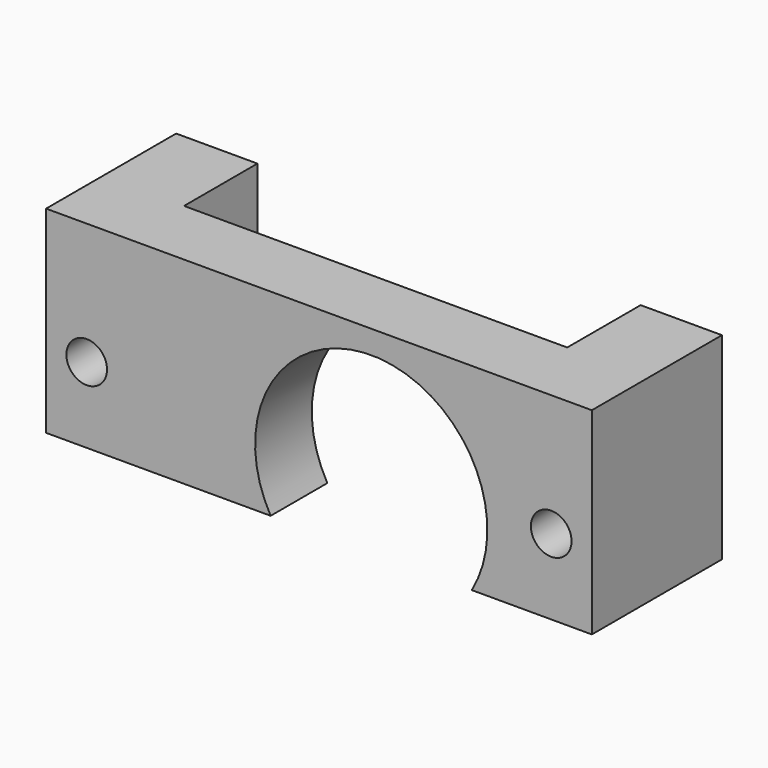
from build123d import *

# Parameters (mm, degrees)
CYLINDER025_R          = 1.75
CYLINDER025_DEPTH      = 44
CYLINDER025_ROLL_ANGLE = 90
CYLINDER034_R          = 1.75
CYLINDER034_DEPTH      = 44
CYLINDER034_ROLL_ANGLE = 90
CYLINDER035_R          = 1.75
CYLINDER035_DEPTH      = 44
CYLINDER035_ROLL_ANGLE = 90
CYLINDER036_R          = 10
CYLINDER036_DEPTH      = 34
CYLINDER036_ROLL_ANGLE = 90
CYLINDER024_R          = 1.75
CYLINDER024_DEPTH      = 44
CYLINDER024_ROLL_ANGLE = 90
BOX052_W               = 7
BOX052_H               = 7.9
BOX052_DEPTH           = 17
BOX050_W               = 47
BOX050_H               = 6.1
BOX050_DEPTH           = 17
BOX051_W               = 7
BOX051_H               = 7.9
BOX051_DEPTH           = 17


with BuildPart() as cylinder_for_hole_10_groovemount_r001:
    # Cylinder025 → Cylinder025 (new body)
    with BuildSketch(Plane.XY):
        Circle(CYLINDER025_R)
    extrude(amount=CYLINDER025_DEPTH)


with BuildPart() as cylinder_for_hole_10_groovemount_r001_1:
    # Cylinder025 roll: moved
    add(cylinder_for_hole_10_groovemount_r001.part.rotate(Axis((0, 0, 0), (1, 0, 0)), CYLINDER025_ROLL_ANGLE))


with BuildPart() as cylinder_for_hole_10_groovemount_r001_2:
    # Cylinder025 placement: moved
    add(cylinder_for_hole_10_groovemount_r001_1.part.moved(Location((20, 6, -2.5))))


with BuildPart() as cylinder_for_hole_3_motherboard002:
    # Cylinder034 → Cylinder034 (new body)
    with BuildSketch(Plane.XY):
        Circle(CYLINDER034_R)
    extrude(amount=CYLINDER034_DEPTH)


with BuildPart() as cylinder_for_hole_3_motherboard002_1:
    # Cylinder034 roll: moved
    add(cylinder_for_hole_3_motherboard002.part.rotate(Axis((0, 0, 0), (1, 0, 0)), CYLINDER034_ROLL_ANGLE))


with BuildPart() as cylinder_for_hole_3_motherboard002_2:
    # Cylinder034 placement: moved
    add(cylinder_for_hole_3_motherboard002_1.part.moved(Location((-20, 6, -13.5))))


with BuildPart() as cylinder_for_hole_4_motherboard002:
    # Cylinder035 → Cylinder035 (new body)
    with BuildSketch(Plane.XY):
        Circle(CYLINDER035_R)
    extrude(amount=CYLINDER035_DEPTH)


with BuildPart() as cylinder_for_hole_4_motherboard002_1:
    # Cylinder035 roll: moved
    add(cylinder_for_hole_4_motherboard002.part.rotate(Axis((0, 0, 0), (1, 0, 0)), CYLINDER035_ROLL_ANGLE))


with BuildPart() as cylinder_for_hole_4_motherboard002_2:
    # Cylinder035 placement: moved
    add(cylinder_for_hole_4_motherboard002_1.part.moved(Location((20, 6, -13.5))))


with BuildPart() as obj1_hole:
    # Cylinder036 → Cylinder036 (new body)
    with BuildSketch(Plane.XY):
        Circle(CYLINDER036_R)
    extrude(amount=CYLINDER036_DEPTH)


with BuildPart() as obj1_hole_1:
    # Cylinder036 roll: moved
    add(obj1_hole.part.rotate(Axis((0, 0, 0), (1, 0, 0)), CYLINDER036_ROLL_ANGLE))


with BuildPart() as obj1_hole_2:
    # Cylinder036 placement: moved
    add(obj1_hole_1.part.moved(Location((4.5, 0, -4))))


with BuildPart() as obj2:
    # Cylinder024 → Cylinder024 (new body)
    with BuildSketch(Plane.XY):
        Circle(CYLINDER024_R)
    extrude(amount=CYLINDER024_DEPTH)


with BuildPart() as obj2_1:
    # Cylinder024 roll: moved
    add(obj2.part.rotate(Axis((0, 0, 0), (1, 0, 0)), CYLINDER024_ROLL_ANGLE))


with BuildPart() as obj2_2:
    # Cylinder024 placement: moved
    add(obj2_1.part.moved(Location((-20, 6, -2.5))))

    # Fusion009: union cylinder for hole 10 - Groovemount R001, cylinder for hole 3 - Motherboard002, cylinder for hole 4 - Motherboard002, obj1_hole
    add(cylinder_for_hole_10_groovemount_r001_2.part)
    add(cylinder_for_hole_3_motherboard002_2.part)
    add(cylinder_for_hole_4_motherboard002_2.part)
    add(obj1_hole_2.part)


with BuildPart() as obj3:
    # Box052 → Box052 (new body)
    with BuildSketch(Plane(origin=(-23.5, -12.9, -9), x_dir=(1, 0, 0), z_dir=(0, 0, 1))):
        with Locations((3.5, 3.95)):
            Rectangle(BOX052_W, BOX052_H)
    extrude(amount=BOX052_DEPTH)


with BuildPart() as obj1:
    # Box050 → Box050 (new body)
    with BuildSketch(Plane(origin=(-23.5, -19, -9), x_dir=(1, 0, 0), z_dir=(0, 0, 1))):
        with Locations((23.5, 3.05)):
            Rectangle(BOX050_W, BOX050_H)
    extrude(amount=BOX050_DEPTH)


with BuildPart() as obj4:
    # Box051 → Box051 (new body)
    with BuildSketch(Plane(origin=(16.5, -12.9, -9), x_dir=(1, 0, 0), z_dir=(0, 0, 1))):
        with Locations((3.5, 3.95)):
            Rectangle(BOX051_W, BOX051_H)
    extrude(amount=BOX051_DEPTH)

    # Fusion010: union obj3, obj1
    add(obj3.part)
    add(obj1.part)

    # Cut008: cut obj2
    add(obj2_2.part, mode=Mode.SUBTRACT)


solid = obj4.part
